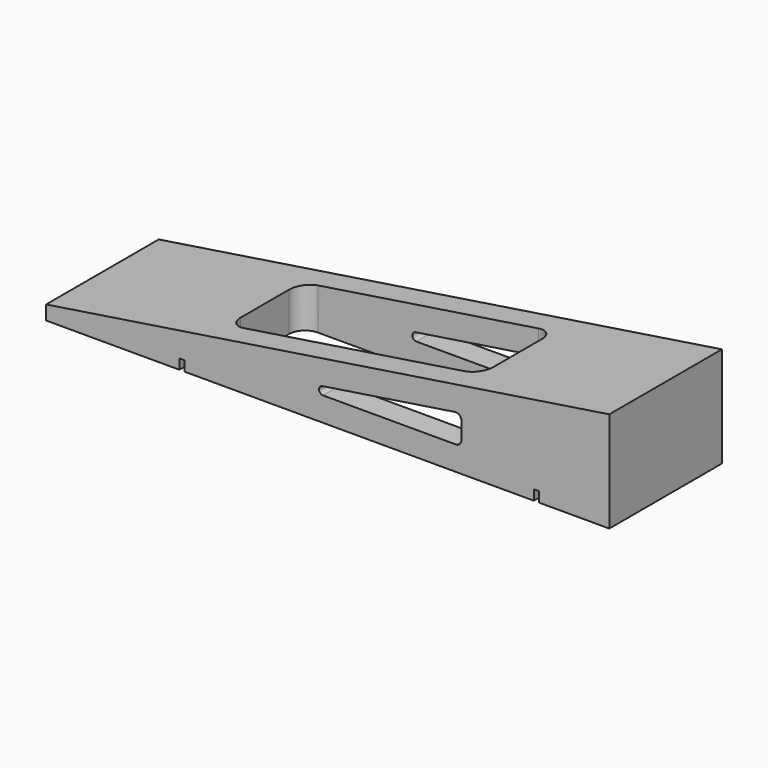
from build123d import *

# Parameters (mm, degrees)
F0_W      = 177.8
F0_H      = 44.45
F1_DEPTH  = 31.75
F2_W      = 1.5875
F2_H      = 44.45
F3_DEPTH  = 3.175
F4_W      = 79.85125
F4_H      = 29.21
F5_DEPTH  = 31.751
F7_DEPTH  = 44.451
F8_R      = 5.08
F10_DEPTH = 44.451


with BuildPart() as f1:
    # F0 (on Top) → F1 (new body)
    with BuildSketch(Plane.XY):
        with Locations((-88.9, -22.225)):
            Rectangle(F0_W, F0_H)
    extrude(amount=F1_DEPTH)

    # F2 (on face) → F3 (cut)
    with BuildSketch(Plane(origin=(0, 0, 0), x_dir=(1, 0, 0), z_dir=(0, 0, -1))):
        with Locations((-23.01875, 22.225)):
            Rectangle(F2_W, F2_H)
        with Locations((-134.9375, 22.225)):
            Rectangle(F2_W, F2_H)
    extrude(amount=-F3_DEPTH, mode=Mode.SUBTRACT)

    # F4 (on face) → F5 (cut, through all)
    with BuildSketch(Plane.XY.offset(31.75)):
        with Locations((-86.598125, -22.225)):
            Rectangle(F4_W, F4_H)
    extrude(amount=-F5_DEPTH, mode=Mode.SUBTRACT)

    # F6 (on face) → F7 (cut, through all)
    with BuildSketch(Plane.XZ.offset(44.45)):
        Polygon((-177.8, 31.75), (-177.8, 4.466168), (0, 31.75), align=None)
    extrude(amount=-F7_DEPTH, mode=Mode.SUBTRACT)

    # F8
    f8_edges = [f1.edges().sort_by_distance(p)[0] for p in [
        (-126.52375, -7.62, 6.167315),
        (-46.6725, -7.62, 12.293997),
        (-126.52375, -36.83, 6.167315),
        (-46.6725, -36.83, 12.293997),
    ]]
    fillet(f8_edges, radius=F8_R)

    # F9 (on face) → F10 (cut, through all)
    with BuildSketch(Plane.XZ.offset(44.45)):
        with BuildLine():
            Line((-48.720182, 16.564578), (-90.55252, 10.145306))
            ThreePointArc((-90.55252, 10.145306), (-91.626212, 8.793405), (-90.35989, 7.62))
            Line((-90.35989, 7.62), (-48.4505, 7.62))
            ThreePointArc((-48.4505, 7.62), (-47.193264, 8.140764), (-46.6725, 9.398))
            Line((-46.6725, 9.398), (-46.6725, 14.807149))
            ThreePointArc((-46.6725, 14.807149), (-47.29253, 16.156367), (-48.720182, 16.564578))
        make_face()
    extrude(amount=-F10_DEPTH, mode=Mode.SUBTRACT)


solid = f1.part
